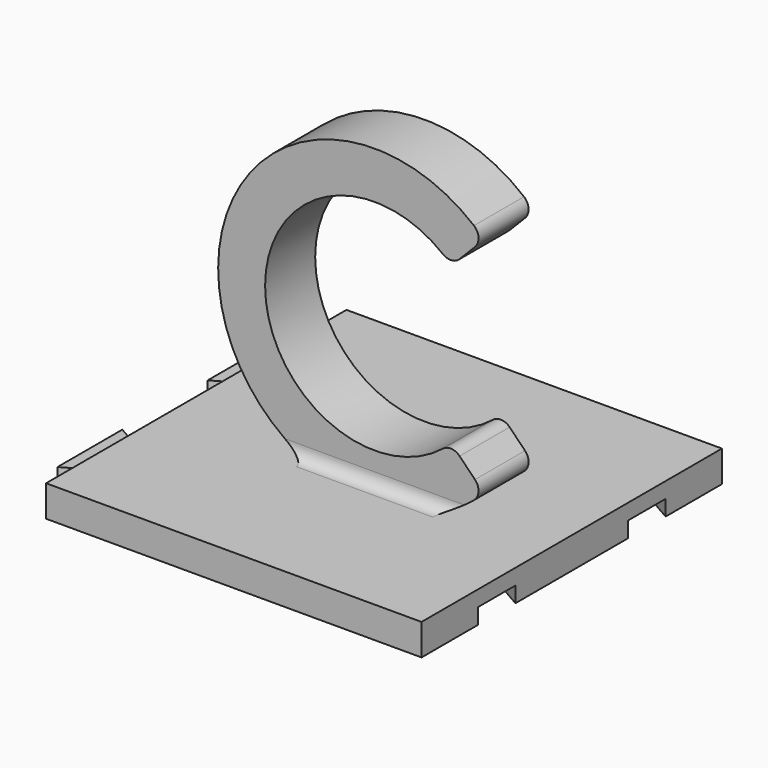
from build123d import *

# Parameters (mm, degrees)
F0_W     = 76.2
F0_H     = 76.2
F2_DEPTH = 6.35
F3_DEPTH = 6.35
F4_R     = 2.54
F6_DEPTH = 3.175
F8_DEPTH = 2.778125


with BuildPart() as f2:
    # F0 (on Top) → F2 (new body)
    with BuildSketch(Plane.XY):
        Rectangle(F0_W, F0_H)
    extrude(amount=-F2_DEPTH)

    # F1 (on Front) → F3 (join, symmetric)
    with BuildSketch(Plane.XZ):
        with BuildLine():
            Line((18.72926, 44.45), (25.395371, 51.253571))
            ThreePointArc((25.395371, 51.253571), (-28.575, 28.575), (25.395371, 5.896429))
            Line((25.395371, 5.896429), (18.72926, 12.7))
            ThreePointArc((18.72926, 12.7), (-19.05, 28.575), (18.72926, 44.45))
        make_face()
    extrude(amount=F3_DEPTH, both=True)

    # F4
    f4_edges = [f2.edges().sort_by_distance(p)[0] for p in [
        (25.395371, 0, 51.253571),
        (18.72926, 0, 44.45),
        (18.72926, 0, 12.7),
        (25.395371, 0, 5.896429),
        (3.175, -6.35, 0),
        (3.175, 6.35, 0),
    ]]
    fillet(f4_edges, radius=F4_R)

    # F5 (on face) → F6 (cut)
    with BuildSketch(Plane(origin=(0, 0, -6.35), x_dir=(1, 0, 0), z_dir=(0, 0, -1))):
        Polygon((38.1, 14.2875), (38.1, 23.8125), (31.75, 27.478674), (31.75, 10.621326), align=None)
        Polygon((31.75, -10.621326), (31.75, -27.478674), (38.1, -23.8125), (38.1, -14.2875), align=None)
    extrude(amount=-F6_DEPTH, mode=Mode.SUBTRACT)

    # F7 (on face) → F8 (join)
    with BuildSketch(Plane(origin=(0, 0, -6.35), x_dir=(1, 0, 0), z_dir=(0, 0, -1))):
        Polygon((-38.1, 14.485938), (-38.1, 23.614063), (-44.45, 27.280237), (-44.45, 10.819763), align=None)
        Polygon((-38.1, -23.614063), (-38.1, -14.485938), (-44.45, -10.819763), (-44.45, -27.280237), align=None)
    extrude(amount=-F8_DEPTH)


solid = f2.part
